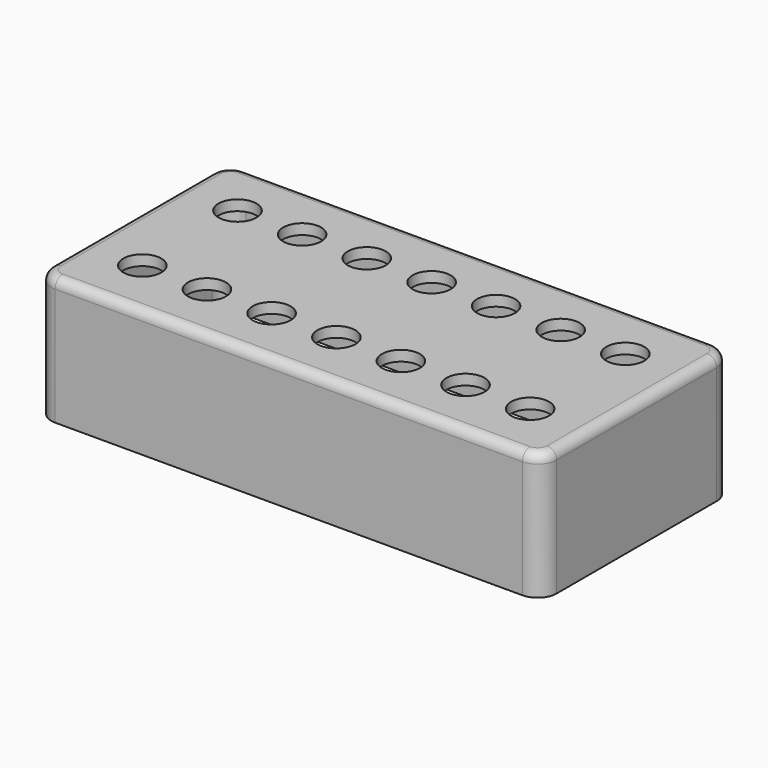
from build123d import *

# Parameters (mm, degrees)
PAD_DEPTH     = 20.07
POCKET_DEPTH  = 18.42
SKETCH002_R   = 3
HOLE_DEPTH    = 25
SKETCH003_R   = 3
HOLE001_DEPTH = 25
SKETCH004_R   = 3
HOLE002_DEPTH = 25
SKETCH005_R   = 3
HOLE003_DEPTH = 25
SKETCH006_R   = 3
HOLE004_DEPTH = 25
SKETCH007_R   = 3
HOLE005_DEPTH = 25
SKETCH008_R   = 3
HOLE006_DEPTH = 25
FILLET_R      = 1.5
SKETCH009_R   = 3
HOLE007_DEPTH = 25
SKETCH010_R   = 3
HOLE008_DEPTH = 25
SKETCH011_R   = 3
HOLE009_DEPTH = 25
SKETCH012_R   = 3
HOLE010_DEPTH = 25
SKETCH013_R   = 3
HOLE011_DEPTH = 25
SKETCH014_R   = 3
HOLE012_DEPTH = 25
SKETCH015_R   = 3
HOLE013_DEPTH = 25


with BuildPart() as part:
    # Sketch → Pad (new body)
    with BuildSketch(Plane.XY):
        with BuildLine():
            Line((18.834122, 40.018788), (92.644122, 40.018788))
            ThreePointArc((95.644122, 37.018788), (94.765442, 39.140108), (92.644122, 40.018788))
            Line((95.644122, 37.018788), (95.644122, 5.428788))
            ThreePointArc((92.644122, 2.428788), (94.765442, 3.307467), (95.644122, 5.428788))
            Line((92.644122, 2.428788), (18.834122, 2.428788))
            ThreePointArc((15.834122, 5.428788), (16.712801, 3.307467), (18.834122, 2.428788))
            Line((15.834122, 5.428788), (15.834122, 37.018788))
            ThreePointArc((18.834122, 40.018788), (16.712801, 39.140108), (15.834122, 37.018788))
        make_face()
    extrude(amount=PAD_DEPTH)

    # Sketch001 (on Face9 of Pad) → Pocket (cut)
    with BuildSketch(Plane(origin=(0, 0, 0), x_dir=(1, 0, 0), z_dir=(0, 0, -1))):
        with BuildLine():
            Line((19.344122, -2.933788), (92.134122, -2.933788))
            ThreePointArc((95.134122, -5.933788), (94.255442, -3.812467), (92.134122, -2.933788))
            Line((95.134122, -5.933788), (95.134122, -36.513788))
            ThreePointArc((92.134122, -39.513788), (94.255442, -38.635108), (95.134122, -36.513788))
            Line((92.134122, -39.513788), (19.344122, -39.513788))
            ThreePointArc((16.344122, -36.513788), (17.222801, -38.635108), (19.344122, -39.513788))
            Line((16.344122, -36.513788), (16.344122, -5.933788))
            ThreePointArc((19.344122, -2.933788), (17.222801, -3.812467), (16.344122, -5.933788))
        make_face()
    extrude(amount=-POCKET_DEPTH, mode=Mode.SUBTRACT)

    # Sketch002 (on Face5 of Pocket) → Hole (cut)
    with BuildSketch(Plane.XY.offset(20.07)):
        with Locations((55.739122, 30.621288)):
            Circle(SKETCH002_R)
    extrude(amount=-HOLE_DEPTH, mode=Mode.SUBTRACT)

    # Sketch003 (on Face5 of Hole) → Hole001 (cut)
    with BuildSketch(Plane.XY.offset(20.07)):
        with Locations((45.501322, 30.621288)):
            Circle(SKETCH003_R)
    extrude(amount=-HOLE001_DEPTH, mode=Mode.SUBTRACT)

    # Sketch004 (on Face5 of Hole001) → Hole002 (cut)
    with BuildSketch(Plane.XY.offset(20.07)):
        with Locations((35.290522, 30.621288)):
            Circle(SKETCH004_R)
    extrude(amount=-HOLE002_DEPTH, mode=Mode.SUBTRACT)

    # Sketch005 (on Face5 of Hole002) → Hole003 (cut)
    with BuildSketch(Plane.XY.offset(20.07)):
        with Locations((25.079722, 30.621288)):
            Circle(SKETCH005_R)
    extrude(amount=-HOLE003_DEPTH, mode=Mode.SUBTRACT)

    # Sketch006 (on Face5 of Hole003) → Hole004 (cut)
    with BuildSketch(Plane.XY.offset(20.07)):
        with Locations((65.922922, 30.621288)):
            Circle(SKETCH006_R)
    extrude(amount=-HOLE004_DEPTH, mode=Mode.SUBTRACT)

    # Sketch007 (on Face5 of Hole004) → Hole005 (cut)
    with BuildSketch(Plane.XY.offset(20.07)):
        with Locations((76.133722, 30.621288)):
            Circle(SKETCH007_R)
    extrude(amount=-HOLE005_DEPTH, mode=Mode.SUBTRACT)

    # Sketch008 (on Face5 of Hole005) → Hole006 (cut)
    with BuildSketch(Plane.XY.offset(20.07)):
        with Locations((86.344522, 30.621288)):
            Circle(SKETCH008_R)
    extrude(amount=-HOLE006_DEPTH, mode=Mode.SUBTRACT)

    # Fillet
    fillet_edges = [part.edges().sort_by_distance(p)[0] for p in [
        (55.739122, 40.018788, 20.07),
    ]]
    fillet(fillet_edges, radius=FILLET_R)

    # Sketch009 (on Face8 of Fillet) → Hole007 (cut)
    with BuildSketch(Plane.XY.offset(20.07)):
        with Locations((55.739122, 11.826288)):
            Circle(SKETCH009_R)
    extrude(amount=-HOLE007_DEPTH, mode=Mode.SUBTRACT)

    # Sketch010 (on Face8 of Hole007) → Hole008 (cut)
    with BuildSketch(Plane.XY.offset(20.07)):
        with Locations((45.501322, 11.826288)):
            Circle(SKETCH010_R)
    extrude(amount=-HOLE008_DEPTH, mode=Mode.SUBTRACT)

    # Sketch011 (on Face8 of Hole008) → Hole009 (cut)
    with BuildSketch(Plane.XY.offset(20.07)):
        with Locations((35.290522, 11.826288)):
            Circle(SKETCH011_R)
    extrude(amount=-HOLE009_DEPTH, mode=Mode.SUBTRACT)

    # Sketch012 (on Face8 of Hole009) → Hole010 (cut)
    with BuildSketch(Plane.XY.offset(20.07)):
        with Locations((25.079722, 11.826288)):
            Circle(SKETCH012_R)
    extrude(amount=-HOLE010_DEPTH, mode=Mode.SUBTRACT)

    # Sketch013 (on Face8 of Hole010) → Hole011 (cut)
    with BuildSketch(Plane.XY.offset(20.07)):
        with Locations((65.922922, 11.826288)):
            Circle(SKETCH013_R)
    extrude(amount=-HOLE011_DEPTH, mode=Mode.SUBTRACT)

    # Sketch014 (on Face8 of Hole011) → Hole012 (cut)
    with BuildSketch(Plane.XY.offset(20.07)):
        with Locations((76.133722, 11.826288)):
            Circle(SKETCH014_R)
    extrude(amount=-HOLE012_DEPTH, mode=Mode.SUBTRACT)

    # Sketch015 (on Face8 of Hole012) → Hole013 (cut)
    with BuildSketch(Plane.XY.offset(20.07)):
        with Locations((86.344522, 11.826288)):
            Circle(SKETCH015_R)
    extrude(amount=-HOLE013_DEPTH, mode=Mode.SUBTRACT)


solid = part.part
